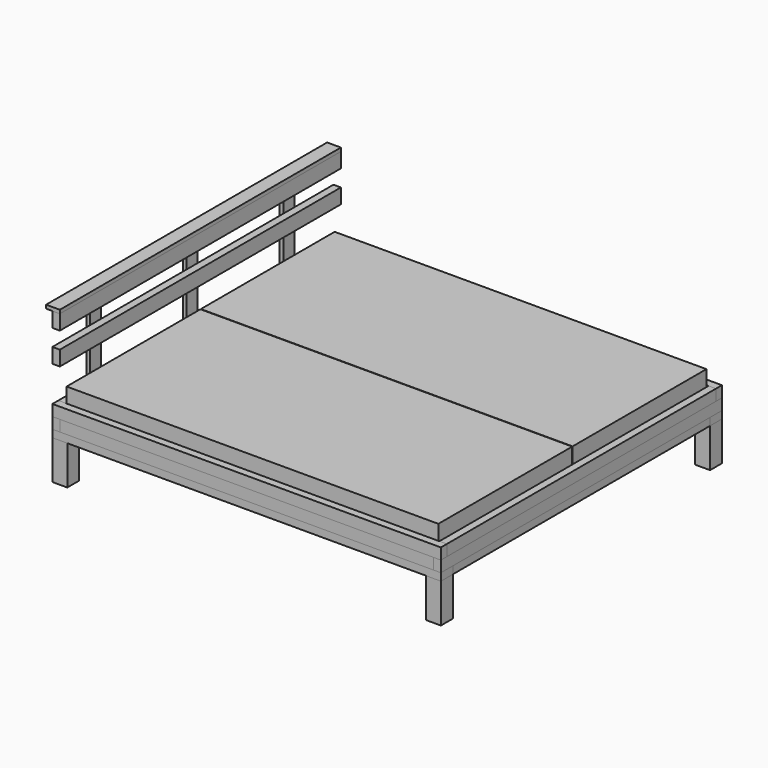
from build123d import *

# Parameters (mm, degrees)
BOX_W        = 2090
BOX_H        = 80
BOX_DEPTH    = 40
BOX001_W     = 2090
BOX001_H     = 80
BOX001_DEPTH = 40
BOX002_W     = 1730
BOX002_H     = 60
BOX002_DEPTH = 40
BOX003_W     = 1730
BOX003_H     = 60
BOX003_DEPTH = 40
BOX004_W     = 2010
BOX004_H     = 40
BOX004_DEPTH = 60
BOX005_W     = 2010
BOX005_H     = 40
BOX005_DEPTH = 60
BOX006_W     = 1890
BOX006_H     = 40
BOX006_DEPTH = 60
BOX007_W     = 1890
BOX007_H     = 40
BOX007_DEPTH = 60
BOX008_W     = 1810
BOX008_H     = 40
BOX008_DEPTH = 60
BOX009_W     = 1810
BOX009_H     = 40
BOX009_DEPTH = 60
BOX010_W     = 2090
BOX010_H     = 40
BOX010_DEPTH = 60
BOX011_W     = 2090
BOX011_H     = 40
BOX011_DEPTH = 60
BOX012_W     = 1970
BOX012_H     = 80
BOX012_DEPTH = 40
BOX014_W     = 80
BOX014_H     = 80
BOX014_DEPTH = 210
BOX015_W     = 80
BOX015_H     = 80
BOX015_DEPTH = 210
BOX016_W     = 80
BOX016_H     = 80
BOX016_DEPTH = 210
BOX017_W     = 80
BOX017_H     = 80
BOX017_DEPTH = 210
BOX018_W     = 80
BOX018_H     = 80
BOX018_DEPTH = 210
BOX020_W     = 80
BOX020_H     = 80
BOX020_DEPTH = 210
BOX021_W     = 1890
BOX021_H     = 40
BOX021_DEPTH = 80
BOX022_W     = 1890
BOX022_H     = 74
BOX022_DEPTH = 19
BOX031_W     = 1890
BOX031_H     = 40
BOX031_DEPTH = 80
BOX024_W     = 74
BOX024_H     = 19
BOX024_DEPTH = 600
BOX033_W     = 74
BOX033_H     = 20
BOX033_DEPTH = 600
BOX034_W     = 74
BOX034_H     = 20
BOX034_DEPTH = 600
BOX036_W     = 74
BOX036_H     = 895
BOX036_DEPTH = 19
BOX037_W     = 74
BOX037_H     = 895
BOX037_DEPTH = 19
BOX038_W     = 74
BOX038_H     = 895
BOX038_DEPTH = 19
BOX039_W     = 74
BOX039_H     = 895
BOX039_DEPTH = 19
BOX040_W     = 74
BOX040_H     = 895
BOX040_DEPTH = 19
BOX041_W     = 74
BOX041_H     = 895
BOX041_DEPTH = 19
BOX042_W     = 74
BOX042_H     = 895
BOX042_DEPTH = 19
BOX043_W     = 74
BOX043_H     = 895
BOX043_DEPTH = 19
BOX044_W     = 74
BOX044_H     = 895
BOX044_DEPTH = 19
BOX045_W     = 74
BOX045_H     = 895
BOX045_DEPTH = 19
BOX046_W     = 74
BOX046_H     = 895
BOX046_DEPTH = 19
BOX047_W     = 74
BOX047_H     = 895
BOX047_DEPTH = 19
BOX048_W     = 74
BOX048_H     = 895
BOX048_DEPTH = 19
BOX049_W     = 74
BOX049_H     = 895
BOX049_DEPTH = 19
BOX050_W     = 74
BOX050_H     = 895
BOX050_DEPTH = 19
BOX051_W     = 74
BOX051_H     = 895
BOX051_DEPTH = 19
BOX052_W     = 74
BOX052_H     = 895
BOX052_DEPTH = 19
BOX053_W     = 74
BOX053_H     = 895
BOX053_DEPTH = 19
BOX054_W     = 74
BOX054_H     = 895
BOX054_DEPTH = 19
BOX055_W     = 74
BOX055_H     = 895
BOX055_DEPTH = 19
BOX056_W     = 74
BOX056_H     = 895
BOX056_DEPTH = 19
BOX057_W     = 74
BOX057_H     = 895
BOX057_DEPTH = 19
BOX058_W     = 74
BOX058_H     = 895
BOX058_DEPTH = 19
BOX059_W     = 74
BOX059_H     = 895
BOX059_DEPTH = 19
BOX060_W     = 74
BOX060_H     = 895
BOX060_DEPTH = 19
BOX061_W     = 74
BOX061_H     = 895
BOX061_DEPTH = 19
BOX062_W     = 74
BOX062_H     = 895
BOX062_DEPTH = 19
BOX063_W     = 74
BOX063_H     = 895
BOX063_DEPTH = 19
BOX064_W     = 74
BOX064_H     = 895
BOX064_DEPTH = 19
BOX065_W     = 74
BOX065_H     = 895
BOX065_DEPTH = 19
BOX066_W     = 2000
BOX066_H     = 900
BOX066_DEPTH = 180
BOX067_W     = 2000
BOX067_H     = 900
BOX067_DEPTH = 180


with BuildPart() as linksunten:
    # Box → Box (new body)
    with BuildSketch(Plane(origin=(-40, -40, 0), x_dir=(1, 0, 0), z_dir=(0, 0, 1))):
        with Locations((1045, 40)):
            Rectangle(BOX_W, BOX_H)
    extrude(amount=BOX_DEPTH)


with BuildPart() as rechtsunten:
    # Box001 → Box001 (new body)
    with BuildSketch(Plane(origin=(-40, 1770, 0), x_dir=(1, 0, 0), z_dir=(0, 0, 1))):
        with Locations((1045, 40)):
            Rectangle(BOX001_W, BOX001_H)
    extrude(amount=BOX001_DEPTH)


with BuildPart() as vorneunten:
    # Box002 → Box002 (new body)
    with BuildSketch(Plane(origin=(2050, 40, 0), x_dir=(0, 1, 0), z_dir=(0, 0, 1))):
        with Locations((865, 30)):
            Rectangle(BOX002_W, BOX002_H)
    extrude(amount=BOX002_DEPTH)


with BuildPart() as hintenunten:
    # Box003 → Box003 (new body)
    with BuildSketch(Plane(origin=(20, 40, 0), x_dir=(0, 1, 0), z_dir=(0, 0, 1))):
        with Locations((865, 30)):
            Rectangle(BOX003_W, BOX003_H)
    extrude(amount=BOX003_DEPTH)


with BuildPart() as linksmitte:
    # Box004 → Box004 (new body)
    with BuildSketch(Plane(origin=(0, -40, 40), x_dir=(1, 0, 0), z_dir=(0, 0, 1))):
        with Locations((1005, 20)):
            Rectangle(BOX004_W, BOX004_H)
    extrude(amount=BOX004_DEPTH)


with BuildPart() as rechtsmitte:
    # Box005 → Box005 (new body)
    with BuildSketch(Plane(origin=(0, 1810, 40), x_dir=(1, 0, 0), z_dir=(0, 0, 1))):
        with Locations((1005, 20)):
            Rectangle(BOX005_W, BOX005_H)
    extrude(amount=BOX005_DEPTH)


with BuildPart() as vornemitte:
    # Box006 → Box006 (new body)
    with BuildSketch(Plane(origin=(2050, -40, 40), x_dir=(0, 1, 0), z_dir=(0, 0, 1))):
        with Locations((945, 20)):
            Rectangle(BOX006_W, BOX006_H)
    extrude(amount=BOX006_DEPTH)


with BuildPart() as hintenmitte:
    # Box007 → Box007 (new body)
    with BuildSketch(Plane(origin=(0, -40, 40), x_dir=(0, 1, 0), z_dir=(0, 0, 1))):
        with Locations((945, 20)):
            Rectangle(BOX007_W, BOX007_H)
    extrude(amount=BOX007_DEPTH)


with BuildPart() as vorneoben:
    # Box008 → Box008 (new body)
    with BuildSketch(Plane(origin=(2050, 0, 100), x_dir=(0, 1, 0), z_dir=(0, 0, 1))):
        with Locations((905, 20)):
            Rectangle(BOX008_W, BOX008_H)
    extrude(amount=BOX008_DEPTH)


with BuildPart() as hintenoben:
    # Box009 → Box009 (new body)
    with BuildSketch(Plane(origin=(0, 0, 100), x_dir=(0, 1, 0), z_dir=(0, 0, 1))):
        with Locations((905, 20)):
            Rectangle(BOX009_W, BOX009_H)
    extrude(amount=BOX009_DEPTH)


with BuildPart() as rechtsoben:
    # Box010 → Box010 (new body)
    with BuildSketch(Plane(origin=(-40, 1810, 100), x_dir=(1, 0, 0), z_dir=(0, 0, 1))):
        with Locations((1045, 20)):
            Rectangle(BOX010_W, BOX010_H)
    extrude(amount=BOX010_DEPTH)


with BuildPart() as linksoben:
    # Box011 → Box011 (new body)
    with BuildSketch(Plane(origin=(-40, -40, 100), x_dir=(1, 0, 0), z_dir=(0, 0, 1))):
        with Locations((1045, 20)):
            Rectangle(BOX011_W, BOX011_H)
    extrude(amount=BOX011_DEPTH)


with BuildPart() as obj1:
    # Box012 → Box012 (new body)
    with BuildSketch(Plane(origin=(20, 865, 0), x_dir=(1, 0, 0), z_dir=(0, 0, 1))):
        with Locations((985, 40)):
            Rectangle(BOX012_W, BOX012_H)
    extrude(amount=BOX012_DEPTH)


with BuildPart() as obj2:
    # Box014 → Box014 (new body)
    with BuildSketch(Plane(origin=(-40, -40, -210), x_dir=(1, 0, 0), z_dir=(0, 0, 1))):
        with Locations((40, 40)):
            Rectangle(BOX014_W, BOX014_H)
    extrude(amount=BOX014_DEPTH)


with BuildPart() as obj3:
    # Box015 → Box015 (new body)
    with BuildSketch(Plane(origin=(1970, -40, -210), x_dir=(1, 0, 0), z_dir=(0, 0, 1))):
        with Locations((40, 40)):
            Rectangle(BOX015_W, BOX015_H)
    extrude(amount=BOX015_DEPTH)


with BuildPart() as obj4:
    # Box016 → Box016 (new body)
    with BuildSketch(Plane(origin=(1970, 1770, -210), x_dir=(1, 0, 0), z_dir=(0, 0, 1))):
        with Locations((40, 40)):
            Rectangle(BOX016_W, BOX016_H)
    extrude(amount=BOX016_DEPTH)


with BuildPart() as obj5:
    # Box017 → Box017 (new body)
    with BuildSketch(Plane(origin=(-40, 1770, -210), x_dir=(1, 0, 0), z_dir=(0, 0, 1))):
        with Locations((40, 40)):
            Rectangle(BOX017_W, BOX017_H)
    extrude(amount=BOX017_DEPTH)


with BuildPart() as obj6:
    # Box018 → Box018 (new body)
    with BuildSketch(Plane(origin=(400, 865, -210), x_dir=(1, 0, 0), z_dir=(0, 0, 1))):
        with Locations((40, 40)):
            Rectangle(BOX018_W, BOX018_H)
    extrude(amount=BOX018_DEPTH)


with BuildPart() as obj7:
    # Box020 → Box020 (new body)
    with BuildSketch(Plane(origin=(1500, 865, -210), x_dir=(1, 0, 0), z_dir=(0, 0, 1))):
        with Locations((40, 40)):
            Rectangle(BOX020_W, BOX020_H)
    extrude(amount=BOX020_DEPTH)


with BuildPart() as kopfteil001:
    # Box021 → Box021 (new body)
    with BuildSketch(Plane(origin=(0, -40, 350), x_dir=(0, 1, 0), z_dir=(0, 0, 1))):
        with Locations((945, 20)):
            Rectangle(BOX021_W, BOX021_H)
    extrude(amount=BOX021_DEPTH)


with BuildPart() as kopfteilbrett:
    # Box022 → Box022 (new body)
    with BuildSketch(Plane(origin=(0, -40, 600), x_dir=(0, 1, 0), z_dir=(0, 0, 1))):
        with Locations((945, 37)):
            Rectangle(BOX022_W, BOX022_H)
    extrude(amount=BOX022_DEPTH)


with BuildPart() as kopfteil002:
    # Box031 → Box031 (new body)
    with BuildSketch(Plane(origin=(0, -40, 520), x_dir=(0, 1, 0), z_dir=(0, 0, 1))):
        with Locations((945, 20)):
            Rectangle(BOX031_W, BOX031_H)
    extrude(amount=BOX031_DEPTH)


with BuildPart() as kopfteilstuetze2:
    # Box024 → Box024 (new body)
    with BuildSketch(Plane(origin=(-40, 213, 0), x_dir=(0, 1, 0), z_dir=(0, 0, 1))):
        with Locations((37, 9.5)):
            Rectangle(BOX024_W, BOX024_H)
    extrude(amount=BOX024_DEPTH)


with BuildPart() as kopfteilstuetze1:
    # Box033 → Box033 (new body)
    with BuildSketch(Plane(origin=(-40, 1513, 0), x_dir=(0, 1, 0), z_dir=(0, 0, 1))):
        with Locations((37, 10)):
            Rectangle(BOX033_W, BOX033_H)
    extrude(amount=BOX033_DEPTH)


with BuildPart() as kopfteilstuetze3:
    # Box034 → Box034 (new body)
    with BuildSketch(Plane(origin=(-40, 863, 0), x_dir=(0, 1, 0), z_dir=(0, 0, 1))):
        with Locations((37, 10)):
            Rectangle(BOX034_W, BOX034_H)
    extrude(amount=BOX034_DEPTH)


with BuildPart() as latter:
    # Box036 → Box036 (new body)
    with BuildSketch(Plane(origin=(45, 902.5, 40), x_dir=(1, 0, 0), z_dir=(0, 0, 1))):
        with Locations((37, 447.5)):
            Rectangle(BOX036_W, BOX036_H)
    extrude(amount=BOX036_DEPTH)


with BuildPart() as obj8:
    # Box037 → Box037 (new body)
    with BuildSketch(Plane(origin=(45, 2.5, 40), x_dir=(1, 0, 0), z_dir=(0, 0, 1))):
        with Locations((37, 447.5)):
            Rectangle(BOX037_W, BOX037_H)
    extrude(amount=BOX037_DEPTH)


with BuildPart() as latter001:
    # Box038 → Box038 (new body)
    with BuildSketch(Plane(origin=(179, 902.5, 40), x_dir=(1, 0, 0), z_dir=(0, 0, 1))):
        with Locations((37, 447.5)):
            Rectangle(BOX038_W, BOX038_H)
    extrude(amount=BOX038_DEPTH)


with BuildPart() as obj9:
    # Box039 → Box039 (new body)
    with BuildSketch(Plane(origin=(179, 2.5, 40), x_dir=(1, 0, 0), z_dir=(0, 0, 1))):
        with Locations((37, 447.5)):
            Rectangle(BOX039_W, BOX039_H)
    extrude(amount=BOX039_DEPTH)


with BuildPart() as latter002:
    # Box040 → Box040 (new body)
    with BuildSketch(Plane(origin=(313, 902.5, 40), x_dir=(1, 0, 0), z_dir=(0, 0, 1))):
        with Locations((37, 447.5)):
            Rectangle(BOX040_W, BOX040_H)
    extrude(amount=BOX040_DEPTH)


with BuildPart() as obj10:
    # Box041 → Box041 (new body)
    with BuildSketch(Plane(origin=(313, 2.5, 40), x_dir=(1, 0, 0), z_dir=(0, 0, 1))):
        with Locations((37, 447.5)):
            Rectangle(BOX041_W, BOX041_H)
    extrude(amount=BOX041_DEPTH)


with BuildPart() as latter003:
    # Box042 → Box042 (new body)
    with BuildSketch(Plane(origin=(447, 902.5, 40), x_dir=(1, 0, 0), z_dir=(0, 0, 1))):
        with Locations((37, 447.5)):
            Rectangle(BOX042_W, BOX042_H)
    extrude(amount=BOX042_DEPTH)


with BuildPart() as obj11:
    # Box043 → Box043 (new body)
    with BuildSketch(Plane(origin=(447, 2.5, 40), x_dir=(1, 0, 0), z_dir=(0, 0, 1))):
        with Locations((37, 447.5)):
            Rectangle(BOX043_W, BOX043_H)
    extrude(amount=BOX043_DEPTH)


with BuildPart() as latter004:
    # Box044 → Box044 (new body)
    with BuildSketch(Plane(origin=(581, 902.5, 40), x_dir=(1, 0, 0), z_dir=(0, 0, 1))):
        with Locations((37, 447.5)):
            Rectangle(BOX044_W, BOX044_H)
    extrude(amount=BOX044_DEPTH)


with BuildPart() as obj12:
    # Box045 → Box045 (new body)
    with BuildSketch(Plane(origin=(581, 2.5, 40), x_dir=(1, 0, 0), z_dir=(0, 0, 1))):
        with Locations((37, 447.5)):
            Rectangle(BOX045_W, BOX045_H)
    extrude(amount=BOX045_DEPTH)


with BuildPart() as latter005:
    # Box046 → Box046 (new body)
    with BuildSketch(Plane(origin=(715, 902.5, 40), x_dir=(1, 0, 0), z_dir=(0, 0, 1))):
        with Locations((37, 447.5)):
            Rectangle(BOX046_W, BOX046_H)
    extrude(amount=BOX046_DEPTH)


with BuildPart() as obj13:
    # Box047 → Box047 (new body)
    with BuildSketch(Plane(origin=(715, 2.5, 40), x_dir=(1, 0, 0), z_dir=(0, 0, 1))):
        with Locations((37, 447.5)):
            Rectangle(BOX047_W, BOX047_H)
    extrude(amount=BOX047_DEPTH)


with BuildPart() as latter006:
    # Box048 → Box048 (new body)
    with BuildSketch(Plane(origin=(849, 902.5, 40), x_dir=(1, 0, 0), z_dir=(0, 0, 1))):
        with Locations((37, 447.5)):
            Rectangle(BOX048_W, BOX048_H)
    extrude(amount=BOX048_DEPTH)


with BuildPart() as obj14:
    # Box049 → Box049 (new body)
    with BuildSketch(Plane(origin=(849, 2.5, 40), x_dir=(1, 0, 0), z_dir=(0, 0, 1))):
        with Locations((37, 447.5)):
            Rectangle(BOX049_W, BOX049_H)
    extrude(amount=BOX049_DEPTH)


with BuildPart() as latter007:
    # Box050 → Box050 (new body)
    with BuildSketch(Plane(origin=(983, 902.5, 40), x_dir=(1, 0, 0), z_dir=(0, 0, 1))):
        with Locations((37, 447.5)):
            Rectangle(BOX050_W, BOX050_H)
    extrude(amount=BOX050_DEPTH)


with BuildPart() as obj15:
    # Box051 → Box051 (new body)
    with BuildSketch(Plane(origin=(983, 2.5, 40), x_dir=(1, 0, 0), z_dir=(0, 0, 1))):
        with Locations((37, 447.5)):
            Rectangle(BOX051_W, BOX051_H)
    extrude(amount=BOX051_DEPTH)


with BuildPart() as latter008:
    # Box052 → Box052 (new body)
    with BuildSketch(Plane(origin=(1117, 902.5, 40), x_dir=(1, 0, 0), z_dir=(0, 0, 1))):
        with Locations((37, 447.5)):
            Rectangle(BOX052_W, BOX052_H)
    extrude(amount=BOX052_DEPTH)


with BuildPart() as obj16:
    # Box053 → Box053 (new body)
    with BuildSketch(Plane(origin=(1117, 2.5, 40), x_dir=(1, 0, 0), z_dir=(0, 0, 1))):
        with Locations((37, 447.5)):
            Rectangle(BOX053_W, BOX053_H)
    extrude(amount=BOX053_DEPTH)


with BuildPart() as latter009:
    # Box054 → Box054 (new body)
    with BuildSketch(Plane(origin=(1251, 902.5, 40), x_dir=(1, 0, 0), z_dir=(0, 0, 1))):
        with Locations((37, 447.5)):
            Rectangle(BOX054_W, BOX054_H)
    extrude(amount=BOX054_DEPTH)


with BuildPart() as obj17:
    # Box055 → Box055 (new body)
    with BuildSketch(Plane(origin=(1251, 2.5, 40), x_dir=(1, 0, 0), z_dir=(0, 0, 1))):
        with Locations((37, 447.5)):
            Rectangle(BOX055_W, BOX055_H)
    extrude(amount=BOX055_DEPTH)


with BuildPart() as latter010:
    # Box056 → Box056 (new body)
    with BuildSketch(Plane(origin=(1385, 902.5, 40), x_dir=(1, 0, 0), z_dir=(0, 0, 1))):
        with Locations((37, 447.5)):
            Rectangle(BOX056_W, BOX056_H)
    extrude(amount=BOX056_DEPTH)


with BuildPart() as obj18:
    # Box057 → Box057 (new body)
    with BuildSketch(Plane(origin=(1385, 2.5, 40), x_dir=(1, 0, 0), z_dir=(0, 0, 1))):
        with Locations((37, 447.5)):
            Rectangle(BOX057_W, BOX057_H)
    extrude(amount=BOX057_DEPTH)


with BuildPart() as latter011:
    # Box058 → Box058 (new body)
    with BuildSketch(Plane(origin=(1519, 902.5, 40), x_dir=(1, 0, 0), z_dir=(0, 0, 1))):
        with Locations((37, 447.5)):
            Rectangle(BOX058_W, BOX058_H)
    extrude(amount=BOX058_DEPTH)


with BuildPart() as obj19:
    # Box059 → Box059 (new body)
    with BuildSketch(Plane(origin=(1519, 2.5, 40), x_dir=(1, 0, 0), z_dir=(0, 0, 1))):
        with Locations((37, 447.5)):
            Rectangle(BOX059_W, BOX059_H)
    extrude(amount=BOX059_DEPTH)


with BuildPart() as latter012:
    # Box060 → Box060 (new body)
    with BuildSketch(Plane(origin=(1653, 902.5, 40), x_dir=(1, 0, 0), z_dir=(0, 0, 1))):
        with Locations((37, 447.5)):
            Rectangle(BOX060_W, BOX060_H)
    extrude(amount=BOX060_DEPTH)


with BuildPart() as obj20:
    # Box061 → Box061 (new body)
    with BuildSketch(Plane(origin=(1653, 2.5, 40), x_dir=(1, 0, 0), z_dir=(0, 0, 1))):
        with Locations((37, 447.5)):
            Rectangle(BOX061_W, BOX061_H)
    extrude(amount=BOX061_DEPTH)


with BuildPart() as latter013:
    # Box062 → Box062 (new body)
    with BuildSketch(Plane(origin=(1787, 902.5, 40), x_dir=(1, 0, 0), z_dir=(0, 0, 1))):
        with Locations((37, 447.5)):
            Rectangle(BOX062_W, BOX062_H)
    extrude(amount=BOX062_DEPTH)


with BuildPart() as obj21:
    # Box063 → Box063 (new body)
    with BuildSketch(Plane(origin=(1787, 2.5, 40), x_dir=(1, 0, 0), z_dir=(0, 0, 1))):
        with Locations((37, 447.5)):
            Rectangle(BOX063_W, BOX063_H)
    extrude(amount=BOX063_DEPTH)


with BuildPart() as latter014:
    # Box064 → Box064 (new body)
    with BuildSketch(Plane(origin=(1921, 902.5, 40), x_dir=(1, 0, 0), z_dir=(0, 0, 1))):
        with Locations((37, 447.5)):
            Rectangle(BOX064_W, BOX064_H)
    extrude(amount=BOX064_DEPTH)


with BuildPart() as obj22:
    # Box065 → Box065 (new body)
    with BuildSketch(Plane(origin=(1921, 2.5, 40), x_dir=(1, 0, 0), z_dir=(0, 0, 1))):
        with Locations((37, 447.5)):
            Rectangle(BOX065_W, BOX065_H)
    extrude(amount=BOX065_DEPTH)


with BuildPart() as obj23:
    # Box066 → Box066 (new body)
    with BuildSketch(Plane(origin=(2.5, 2.5, 59), x_dir=(1, 0, 0), z_dir=(0, 0, 1))):
        with Locations((1000, 450)):
            Rectangle(BOX066_W, BOX066_H)
    extrude(amount=BOX066_DEPTH)


with BuildPart() as obj24:
    # Box067 → Box067 (new body)
    with BuildSketch(Plane(origin=(2.5, 905, 59), x_dir=(1, 0, 0), z_dir=(0, 0, 1))):
        with Locations((1000, 450)):
            Rectangle(BOX067_W, BOX067_H)
    extrude(amount=BOX067_DEPTH)


solid = Compound([linksunten.part, rechtsunten.part, vorneunten.part, hintenunten.part, linksmitte.part, rechtsmitte.part, vornemitte.part, hintenmitte.part, vorneoben.part, hintenoben.part, rechtsoben.part, linksoben.part, obj1.part, obj2.part, obj3.part, obj4.part, obj5.part, obj6.part, obj7.part, kopfteil001.part, kopfteilbrett.part, kopfteil002.part, kopfteilstuetze2.part, kopfteilstuetze1.part, kopfteilstuetze3.part, latter.part, obj8.part, latter001.part, obj9.part, latter002.part, obj10.part, latter003.part, obj11.part, latter004.part, obj12.part, latter005.part, obj13.part, latter006.part, obj14.part, latter007.part, obj15.part, latter008.part, obj16.part, latter009.part, obj17.part, latter010.part, obj18.part, latter011.part, obj19.part, latter012.part, obj20.part, latter013.part, obj21.part, latter014.part, obj22.part, obj23.part, obj24.part])
